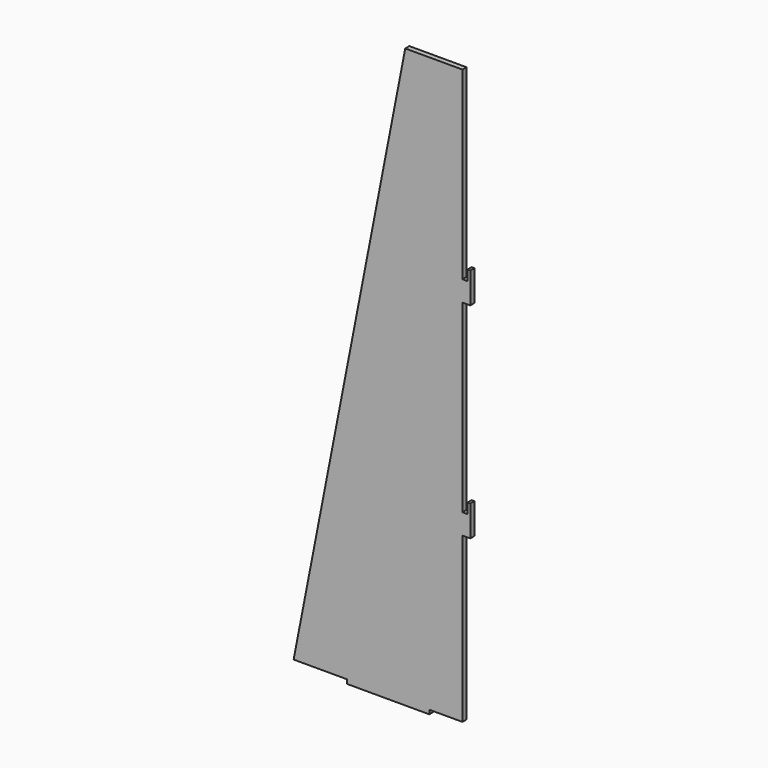
from build123d import *

# Parameters (mm, degrees)
F1_DEPTH = 2.5
F3_DEPTH = 25


with BuildPart() as f1:
    # F0 (on Front) → F1 (new body)
    with BuildSketch(Plane.XZ):
        Polygon((-31.706513, 280), (-86.133, 0), (-60, 0), (-60, -2), (-20, -2), (-20, 0), (0, 0), (0, 280), align=None)
    extrude(amount=F1_DEPTH)

    # F2 (on Front) → F3 (cut)
    with BuildSketch(Plane.XZ):
        Polygon((26.572452, -10), (26.572452, 285.471179), (-3.83, 285.471179), (-3.83, 190), (-1.33, 190), (-1.33, 195), (3.67, 195), (3.67, 180), (-3.83, 180), (-3.83, 90), (-1.33, 90), (-1.33, 95), (3.67, 95), (3.67, 80), (-3.83, 80), (-3.83, -10), align=None)
    extrude(amount=F3_DEPTH, mode=Mode.SUBTRACT)


solid = f1.part
